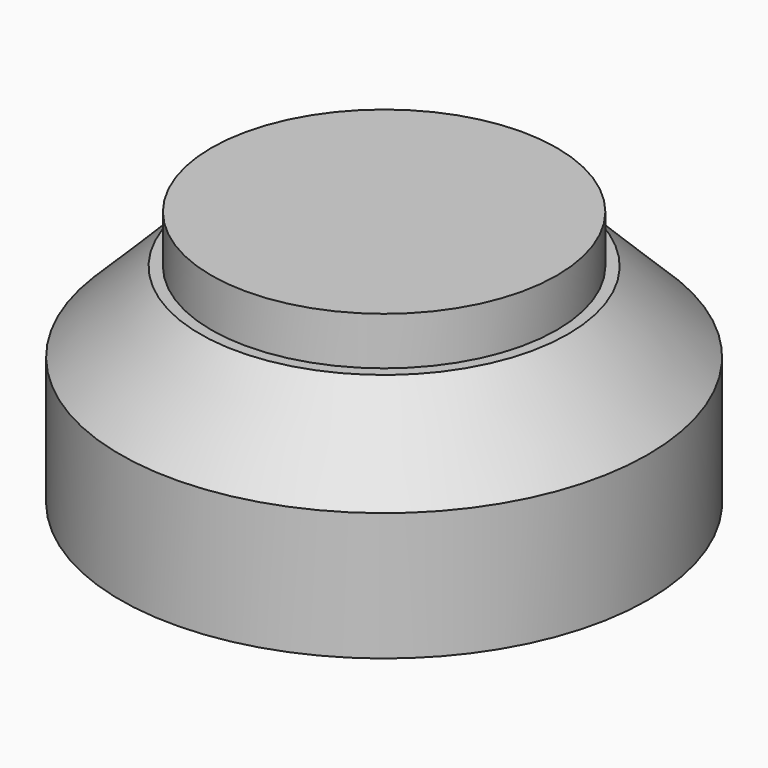
from build123d import *

# Parameters (mm, degrees)
F2_SIZE = 3.175


with BuildPart() as f1:
    # F0 (on Front) → F1 (revolve)
    with BuildSketch(Plane.XZ):
        Polygon((2.0066, 3.175), (2.0066, 0), (10.4775, 0), (10.4775, 8.255), (5.4102, 8.255), (5.4102, 3.175), align=None)
    revolve(axis=Axis((0, 0, 4.1275), (0, 0, 1)))

    # F2
    f2_edges = [f1.edges().sort_by_distance(p)[0] for p in [
        (-10.4775, 0, 8.255),
    ]]
    chamfer(f2_edges, length=F2_SIZE)


with BuildPart() as f4:
    # F3 (on Front) → F4 (revolve)
    with BuildSketch(Plane.XZ):
        Polygon((0, 10.16), (0, 7.747), (5.1562, 7.747), (5.1562, 8.255), (6.858, 8.255), (6.858, 10.16), align=None)
    revolve(axis=Axis((0, 0, 8.9535), (0, 0, 1)))


solid = Compound([f1.part, f4.part])
